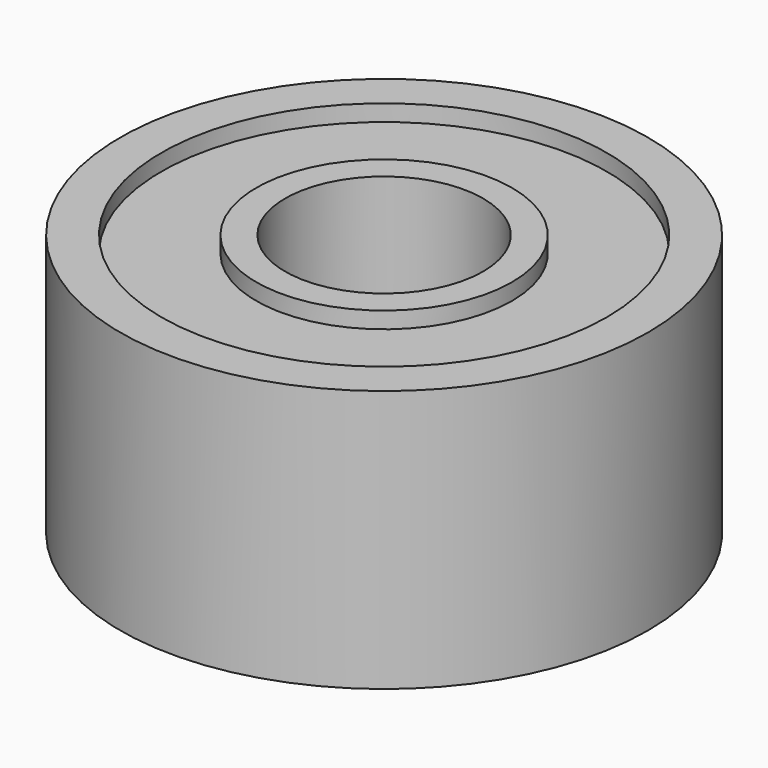
from build123d import *

# Parameters (mm, degrees)
SKETCH_R      = 16
SKETCH_R_2    = 6
PAD_DEPTH     = 7.95
SKETCH001_R   = 13.5
SKETCH001_R_2 = 7.75
POCKET_DEPTH  = 1


with BuildPart() as part:
    # Sketch → Pad (new body, symmetric)
    with BuildSketch(Plane.XY):
        Circle(SKETCH_R)
        Circle(SKETCH_R_2, mode=Mode.SUBTRACT)
    extrude(amount=PAD_DEPTH, both=True)

    # Sketch001 (on Face4 of Pad) → Pocket (cut)
    with BuildSketch(Plane.XY.offset(7.95)):
        Circle(SKETCH001_R)
        Circle(SKETCH001_R_2, mode=Mode.SUBTRACT)
    pocket = extrude(amount=-POCKET_DEPTH, mode=Mode.SUBTRACT)

    # Mirrored: Pocket across XY
    add(pocket.mirror(Plane.XY), mode=Mode.SUBTRACT)


solid = part.part
